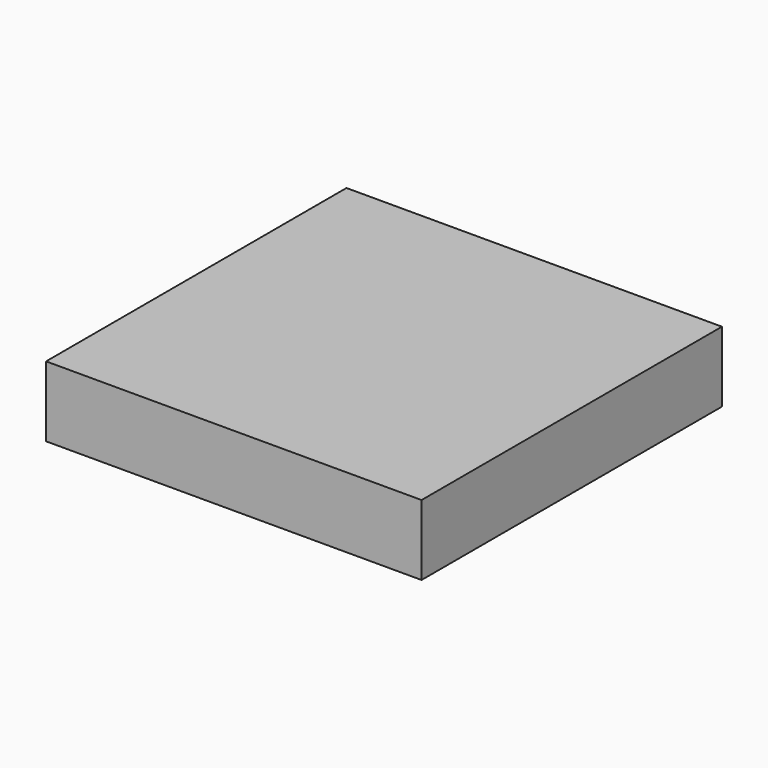
from build123d import *

# Parameters (mm, degrees)
SKETCH_W  = 4
SKETCH_H  = 4
PAD_DEPTH = 0.75


with BuildPart() as part:
    # Sketch → Pad (new body)
    with BuildSketch(Plane.XY):
        Rectangle(SKETCH_W, SKETCH_H)
    extrude(amount=PAD_DEPTH)


solid = part.part
